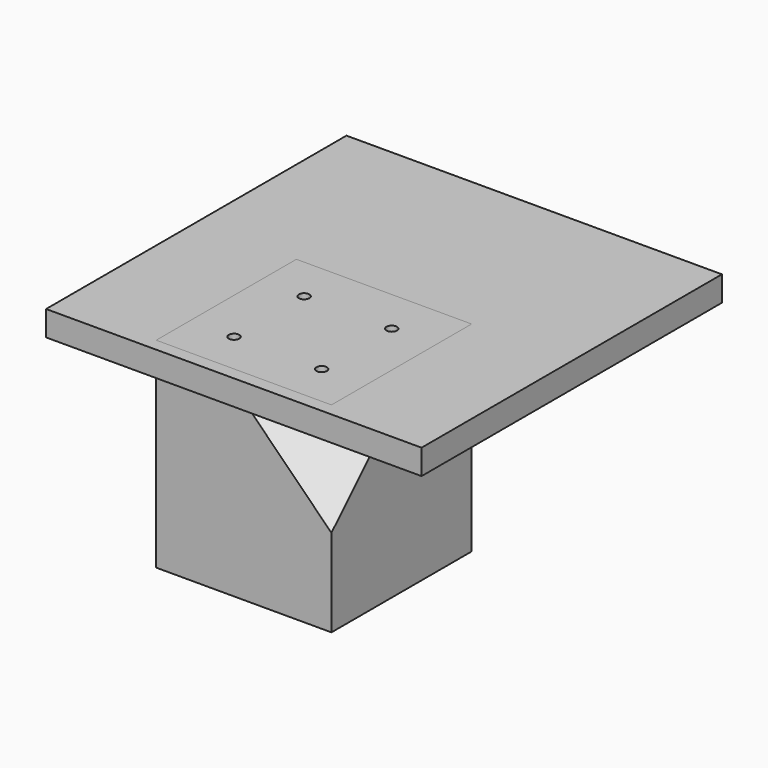
from build123d import *

# Parameters (mm, degrees)
F0_W      = 70
F0_H      = 70
F1_DEPTH  = 70
F3_D      = 4.2
F3_DEPTH  = 14.4
F3_TIP    = 1.2618073
F7_W      = 42.8660704987
F7_H      = 49.4974746831
F8_DEPTH  = 20.2072594216
F9_W      = 150
F9_H      = 150
F9_W_2    = 70
F9_H_2    = 70
F10_DEPTH = 10
F4_W      = 70
F4_H      = 70
F4_R      = 2.1


with BuildPart() as f1:
    # F0 (on Front) → F1 (new body)
    with BuildSketch(Plane.XZ):
        Rectangle(F0_W, F0_H)
    extrude(amount=F1_DEPTH)

    # F3
    with Locations(Plane.XY.offset(35)):
        with Locations((-17.5, -53.0135591482), (-17.5, -18.0135591482), (17.5, -18.0135591482), (17.5, -53.0135591482)):
            Hole(F3_D / 2, depth=F3_DEPTH)
            with Locations((0, 0, -(F3_DEPTH + F3_TIP / 2))):  # 118° drill point
                Cone(0, F3_D / 2, F3_TIP, mode=Mode.SUBTRACT)

    # F7 (on 3pt) → F8 (cut, through all)
    with BuildSketch(Plane(origin=(35, -35, 35), x_dir=(0.8164965809, 0.4082482905, -0.4082482905), z_dir=(0.5773502692, -0.5773502692, 0.5773502692))):
        with Locations((-21.4330352494, -24.7487373415)):
            Rectangle(F7_W, F7_H)
    extrude(amount=F8_DEPTH, mode=Mode.SUBTRACT)


with BuildPart() as f10:
    # F9 (on face) → F10 (new body)
    with BuildSketch(Plane.XY.offset(35)):
        Rectangle(F9_W, F9_H)
        with Locations((0, -35)):
            Rectangle(F9_W_2, F9_H_2, mode=Mode.SUBTRACT)
    extrude(amount=F10_DEPTH)


with BuildPart() as f10b:
    # F4 (on face) → F10, piece 2 (new body)
    with BuildSketch(Plane.XY.offset(35)):
        with Locations((0, -35)):
            Rectangle(F4_W, F4_H)
        with Locations((-17.5, -53.0135591482)):
            Circle(F4_R, mode=Mode.SUBTRACT)
        with Locations((17.5, -53.0135591482)):
            Circle(F4_R, mode=Mode.SUBTRACT)
        with Locations((-17.5, -18.0135591482)):
            Circle(F4_R, mode=Mode.SUBTRACT)
        with Locations((17.5, -18.0135591482)):
            Circle(F4_R, mode=Mode.SUBTRACT)
    extrude(amount=F10_DEPTH)


solid = Compound([f1.part, f10.part, f10b.part])
